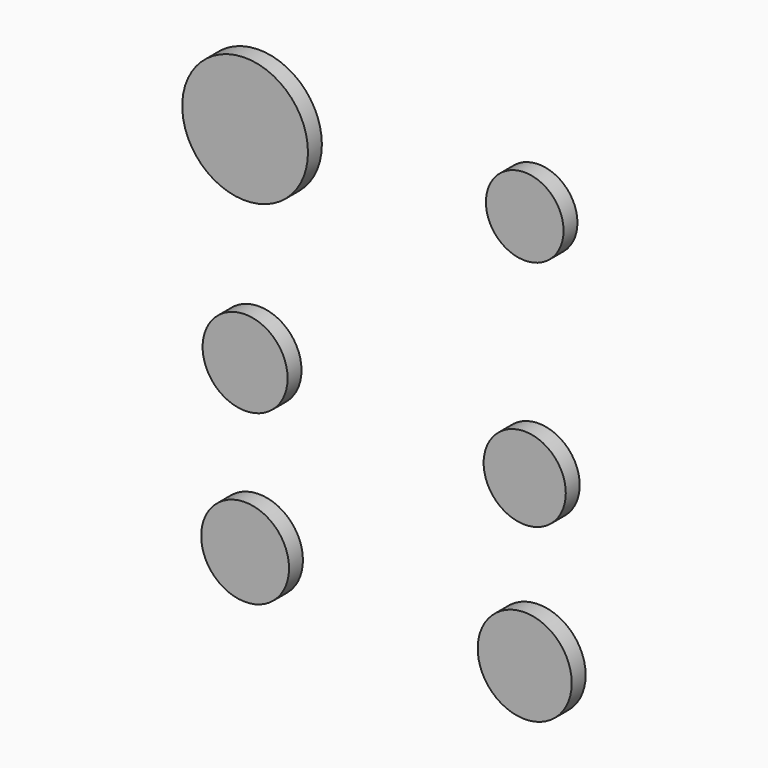
from build123d import *

# Parameters (mm, degrees)
F0_R     = 5.743686
F0_R_2   = 3.882967
F0_R_3   = 4.013522
F0_R_4   = 3.547378
F0_R_5   = 3.7531
F0_R_6   = 4.296583
F1_DEPTH = 1.5875


with BuildPart() as f1:
    # F0 (on Front) → F1 (new body)
    with BuildSketch(Plane.XZ):
        with Locations((-15.42278, 19.753508)):
            Circle(F0_R)
        with Locations((-15.42278, 0.977221)):
            Circle(F0_R_2)
        with Locations((-15.42278, -14.260704)):
            Circle(F0_R_3)
        with Locations((10.124086, 21.04135)):
            Circle(F0_R_4)
        with Locations((10.124086, 0)):
            Circle(F0_R_5)
        with Locations((10.124086, -15.100488)):
            Circle(F0_R_6)
    extrude(amount=F1_DEPTH)


solid = f1.part
